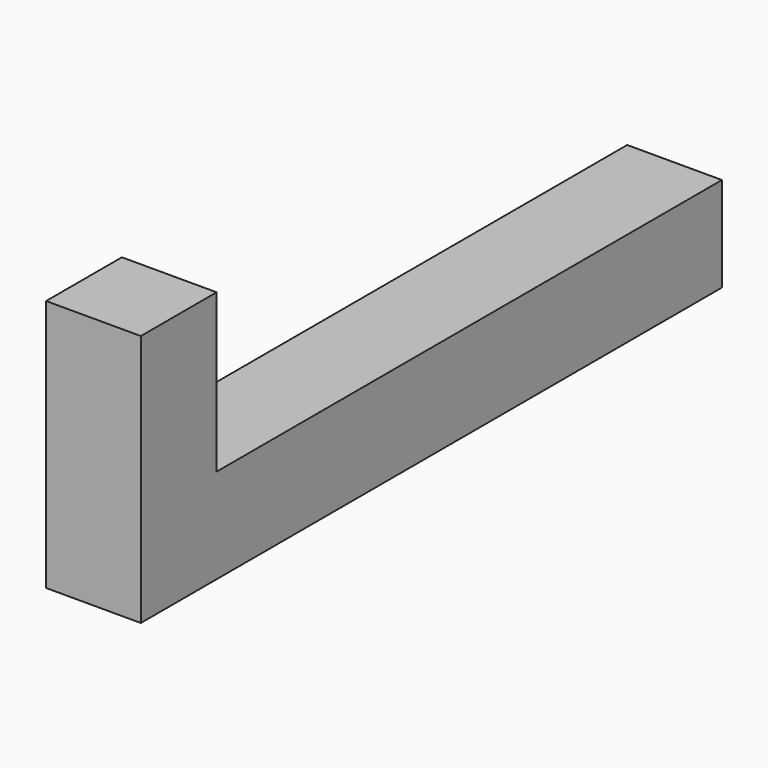
from build123d import *

# Parameters (mm, degrees)
F0_W     = 3.81
F0_H     = 3.81
F1_DEPTH = 10.16
F3_W     = 3.81
F3_H     = 3.81
F4_DEPTH = 25.4


with BuildPart() as f1:
    # F0 (on Top) → F1 (new body)
    with BuildSketch(Plane.XY):
        with Locations((1.905, -1.905)):
            Rectangle(F0_W, F0_H)
    extrude(amount=F1_DEPTH)

    # F3 (on offset) → F4 (join)
    with BuildSketch(Plane(origin=(0, 0, 0), x_dir=(-1, 0, 0), z_dir=(0, 1, 0))):
        with Locations((-1.905, 1.905)):
            Rectangle(F3_W, F3_H)
    extrude(amount=F4_DEPTH)


solid = f1.part
